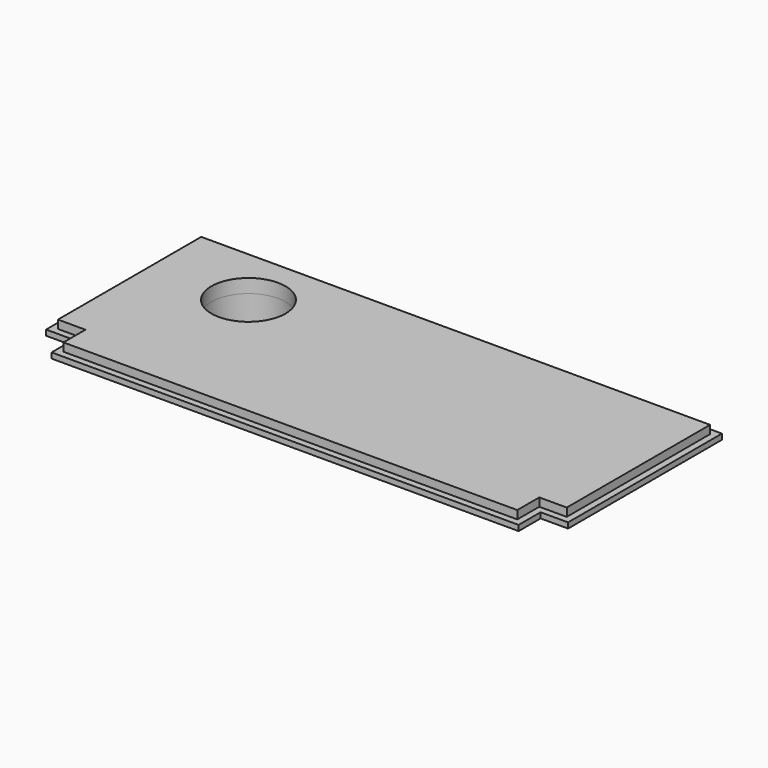
from build123d import *

# Parameters (mm, degrees)
F0_R     = 9.8425
F0_R_2   = 8.5725
F1_DEPTH = 3.175
F2_DEPTH = 1.27
F3_DEPTH = 6.35


with BuildPart() as f1:
    # F0 (on Top) → F1 (new body)
    with BuildSketch(Plane.XY):
        Polygon((-45.7681482593, 25.8189766522), (-45.7681482593, -15.5830233478), (-39.4181482593, -15.5830233478), (-39.4181482593, -21.9330233478), (65.4838517407, -21.9330233478), (65.4838517407, -15.5830233478), (71.8338517407, -15.5830233478), (71.8338517407, 25.8189766522), align=None)
        with Locations((-23.7193740904, 11.9003998116)):
            Circle(F0_R, mode=Mode.SUBTRACT)
        with Locations((-23.7193740904, 11.9003998116)):
            Circle(F0_R)
        with Locations((-23.7193740904, 11.9003998116)):
            Circle(F0_R_2, mode=Mode.SUBTRACT)
    extrude(amount=F1_DEPTH)


with BuildPart() as f2:
    # F0 (on Top) → F2 (new body)
    with BuildSketch(Plane.XY):
        Polygon((73.3578517407, 27.3429766522), (-47.2921482593, 27.3429766522), (-47.2921482593, -17.1070233478), (-40.9421482593, -17.1070233478), (-40.9421482593, -23.4570233478), (67.0078517407, -23.4570233478), (67.0078517407, -17.1070233478), (73.3578517407, -17.1070233478), align=None)
        Polygon((-39.4181482593, -15.5830233478), (-45.7681482593, -15.5830233478), (-45.7681482593, 25.8189766522), (71.8338517407, 25.8189766522), (71.8338517407, -15.5830233478), (65.4838517407, -15.5830233478), (65.4838517407, -21.9330233478), (-39.4181482593, -21.9330233478), align=None, mode=Mode.SUBTRACT)
    extrude(amount=F2_DEPTH)


with BuildPart() as f3:
    # F0 (on Top) → F3 (new body)
    with BuildSketch(Plane.XY):
        with Locations((-23.7193740904, 11.9003998116)):
            Circle(F0_R)
        with Locations((-23.7193740904, 11.9003998116)):
            Circle(F0_R_2, mode=Mode.SUBTRACT)
    extrude(amount=-F3_DEPTH)


solid = Compound([f1.part, f2.part, f3.part])
